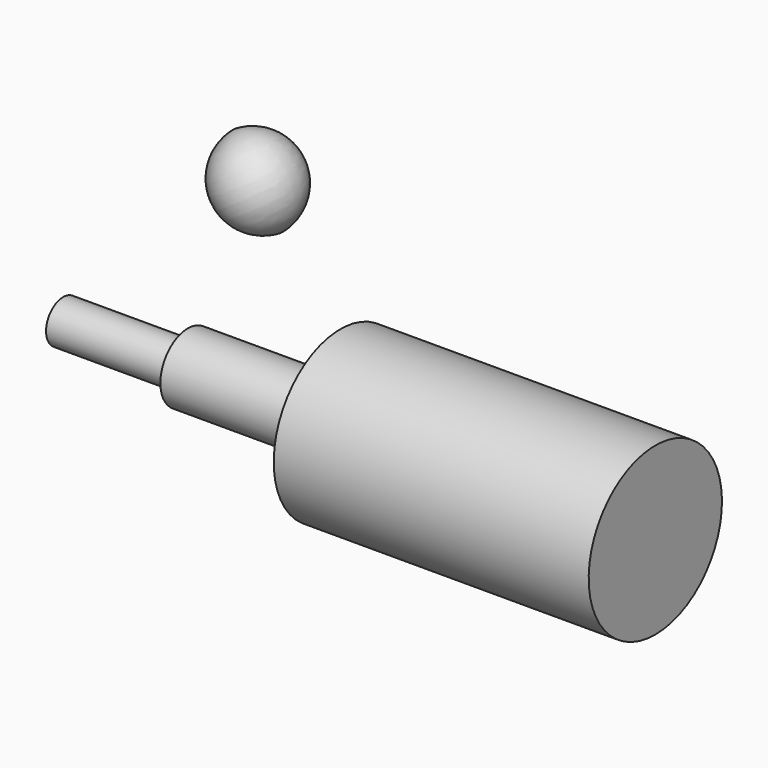
from build123d import *

# Parameters (mm, degrees)
F4_R     = 4.2823796257
F5_DEPTH = 25


with BuildPart() as f1:
    # F0 (on Front) → F1 (revolve)
    with BuildSketch(Plane.XZ):
        Polygon((-42.9545454681, 0), (-42.9545454681, -6.8783424795), (-12.3529415578, -6.8783424795), (-12.3529415578, -16.7045462877), (50.8155077696, -16.7045462877), (50.8155077696, 0), align=None)
    revolve(axis=Axis((3.9304811507, 0, 0), (1, 0, 0)))

    # F4 (on face) → F5 (join)
    with BuildSketch(Plane(origin=(-42.9545454681, 0, 0), x_dir=(0, -1, 0), z_dir=(-1, 0, 0))):
        Circle(F4_R)
    extrude(amount=F5_DEPTH)


with BuildPart() as f3:
    # F2 (on Front) → F3 (revolve)
    with BuildSketch(Plane.XZ):
        with BuildLine():
            Line((-25.461028086, 31.9908717662), (-24.14438501, 29.8997331411))
            ThreePointArc((-24.14438501, 29.8997331411), (-22.0620234003, 41.7961158276), (-33.6898416281, 45.0601615012))
            Line((-33.6898416281, 45.0601615012), (-32.3731985521, 42.969022876))
            ThreePointArc((-32.3731985521, 42.969022876), (-24.1386718832, 40.4885961762), (-25.461028086, 31.9908717662))
        make_face()
    revolve(axis=Axis((-28.917113319, 0, 37.4799473211), (0.5328133386, 0, -0.8462327967)))


solid = Compound([f1.part, f3.part])
